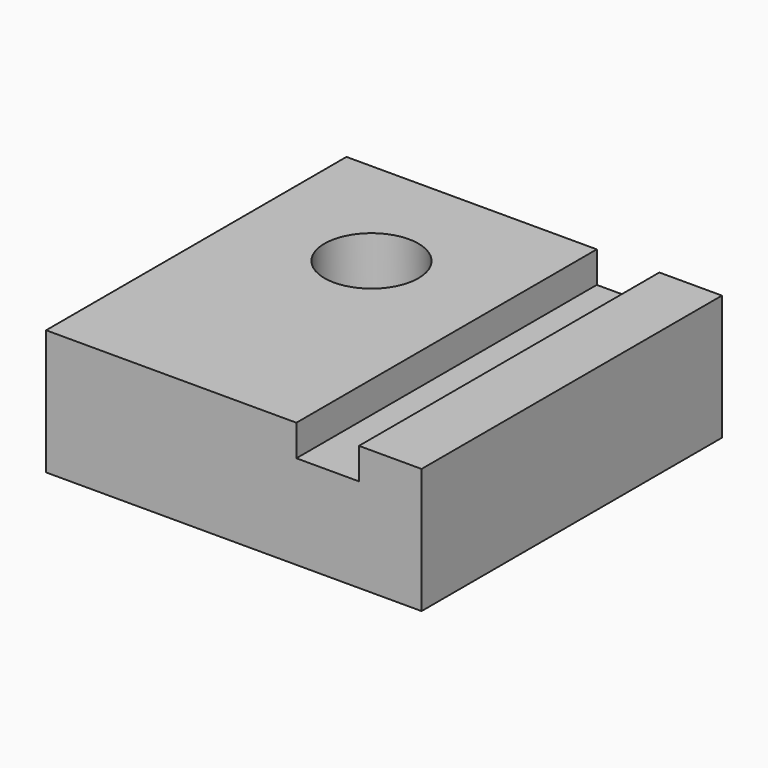
from build123d import *

# Parameters (mm, degrees)
F1_DEPTH = 76.2
F2_R     = 9.525
F3_DEPTH = 25.401


with BuildPart() as f1:
    # F0 (on Front) → F1 (new body)
    with BuildSketch(Plane.XZ):
        Polygon((0, 25.4), (0, 0), (76.2, 0), (76.2, 25.4), (63.5, 25.4), (63.5, 19.05), (50.8, 19.05), (50.8, 25.4), align=None)
    extrude(amount=F1_DEPTH)

    # F2 (on face) → F3 (cut, through all)
    with BuildSketch(Plane.XY.offset(25.4)):
        with Locations((25.4, -25.4)):
            Circle(F2_R)
    extrude(amount=-F3_DEPTH, mode=Mode.SUBTRACT)


solid = f1.part
